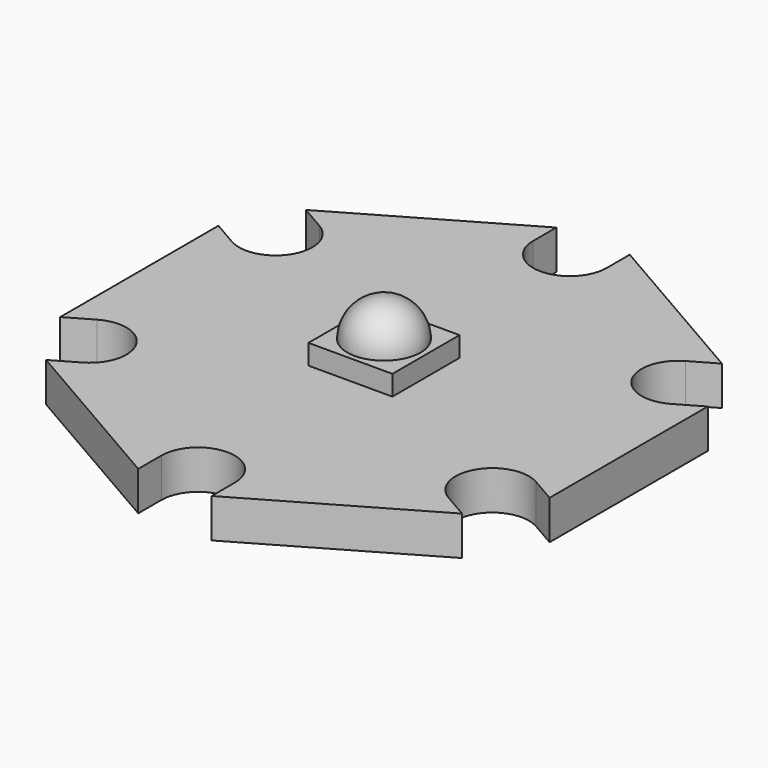
from build123d import *

# Parameters (mm, degrees)
F0_W     = 3.43
F0_H     = 3.43
F1_DEPTH = 1.6
F0_R     = 1.5
F2_DEPTH = 2.42


with BuildPart() as f1:
    # F0 (on Top) → F1 (new body)
    with BuildSketch(Plane.XY):
        with BuildLine():
            Line((10, -4.041452), (10, 4.041452))
            Line((10, 4.041452), (8.977241, 3.450962))
            ThreePointArc((8.977241, 3.450962), (6.928203, 4), (7.477241, 6.049038))
            Line((7.477241, 6.049038), (8.5, 6.639528))
            Line((8.5, 6.639528), (1.5, 10.68098))
            Line((1.5, 10.68098), (1.5, 9.5))
            ThreePointArc((1.5, 9.5), (0, 8), (-1.5, 9.5))
            Line((-1.5, 9.5), (-1.5, 10.68098))
            Line((-1.5, 10.68098), (-8.5, 6.639528))
            Line((-8.5, 6.639528), (-7.477241, 6.049038))
            ThreePointArc((-7.477241, 6.049038), (-6.928203, 4), (-8.977241, 3.450962))
            Line((-8.977241, 3.450962), (-10, 4.041452))
            Line((-10, 4.041452), (-10, -4.041452))
            Line((-10, -4.041452), (-8.977241, -3.450962))
            ThreePointArc((-8.977241, -3.450962), (-6.928203, -4), (-7.477241, -6.049038))
            Line((-7.477241, -6.049038), (-8.5, -6.639528))
            Line((-8.5, -6.639528), (-1.5, -10.68098))
            Line((-1.5, -10.68098), (-1.5, -9.5))
            ThreePointArc((-1.5, -9.5), (0, -8), (1.5, -9.5))
            Line((1.5, -9.5), (1.5, -10.68098))
            Line((1.5, -10.68098), (8.5, -6.639528))
            Line((8.5, -6.639528), (7.477241, -6.049038))
            ThreePointArc((7.477241, -6.049038), (6.928203, -4), (8.977241, -3.450962))
            Line((8.977241, -3.450962), (10, -4.041452))
        make_face()
        Rectangle(F0_W, F0_H, mode=Mode.SUBTRACT)
    extrude(amount=F1_DEPTH)

    # F0 (on Top) → F2 (join)
    with BuildSketch(Plane.XY):
        Rectangle(F0_W, F0_H)
        Circle(F0_R, mode=Mode.SUBTRACT)
        Circle(F0_R)
    extrude(amount=F2_DEPTH)


with BuildPart() as f4:
    # F3 (on face) → F4 (revolve)
    with BuildSketch(Plane.XY.offset(2.42)):
        with BuildLine():
            Line((1.5, 0), (-1.5, 0))
            ThreePointArc((-1.5, 0), (0, -1.5), (1.5, 0))
        make_face()
    revolve(axis=Axis((0, 0, 2.42), (1, 0, 0)))


solid = Compound([f1.part, f4.part])
